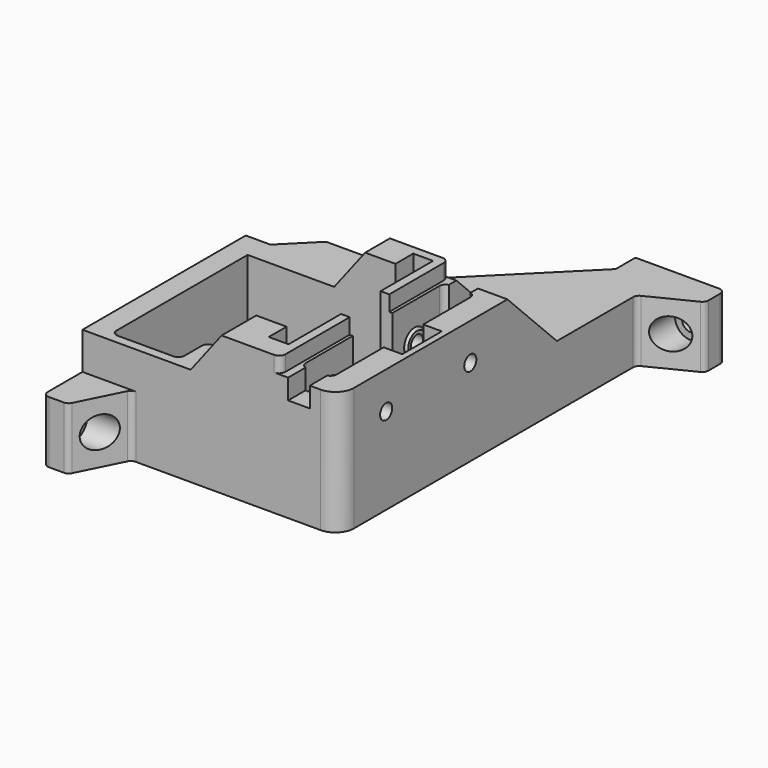
from build123d import *

# Parameters (mm, degrees)
PAD049_DEPTH           = 50
SKETCH170_R            = 2.75
POCKET_DEPTH           = 152.001
SKETCH171_R            = 2.75
SKETCH171_W            = 16
SKETCH171_H            = 12
POCKET131_DEPTH        = 99.001
POCKET132_DEPTH        = 5.001
POCKET133_DEPTH        = 0.001
POCKET133_DEPTH_BACK   = 45.001
SKETCH187_W            = 6.4
SKETCH187_H            = 58.4
POCKET134_DEPTH        = 20.001
SKETCH197_R            = 5
POCKET135_DEPTH        = 95.001
POCKET136_DEPTH        = 20
SKETCH198_R            = 5
POCKET137_DEPTH        = 148.001
SKETCH189_R            = 1.75
POCKET138_DEPTH        = 29.601
POCKET139_DEPTH        = 15.001
LINEARPATTERN_COUNT    = 2
LINEARPATTERN_PITCH    = 52
LINEARPATTERN001_COUNT = 2
LINEARPATTERN001_PITCH = 34
SKETCH185_R            = 2.45
POCKET140_DEPTH        = 37.001
PAD_START              = 70
PAD_DEPTH              = 66
PAD053_START           = 70
PAD053_DEPTH           = 13
POCKET141_DEPTH        = 2.001
POCKET141_DEPTH_BACK   = 99.001
SKETCH173_W            = 11
SKETCH173_H            = 11.5
POCKET142_DEPTH        = 3.5


with BuildPart() as part:
    # Sketch169 → Pad049 (new body)
    with BuildSketch(Plane.XY):
        with BuildLine():
            Line((97.894427, -8.552786), (84.105573, -15.447214))
            ThreePointArc((84.105573, -15.447214), (83.298698, -16.184606), (83, -17.236068))
            Line((83, -17.236068), (83, -130))
            ThreePointArc((77, -136), (81.242641, -134.242641), (83, -130))
            Line((77, -136), (17.236068, -136))
            ThreePointArc((17.236068, -136), (16.184606, -136.298698), (15.447214, -137.105573))
            Line((15.447214, -137.105573), (8.552786, -150.894427))
            ThreePointArc((6.763932, -152), (7.815394, -151.701302), (8.552786, -150.894427))
            Line((6.763932, -152), (2, -152))
            ThreePointArc((0, -150), (0.585786, -151.414214), (2, -152))
            Line((0, -150), (0, -70))
            Line((0, -70), (8, -70))
            Line((8, -70), (70, -8))
            Line((70, -8), (70, 0))
            Line((70, 0), (97, 0))
            ThreePointArc((99, -2), (98.414214, -0.585786), (97, 0))
            Line((99, -2), (99, -6.763932))
            ThreePointArc((97.894427, -8.552786), (98.701302, -7.815394), (99, -6.763932))
        make_face()
        with BuildLine():
            Line((65, -73), (65, -127))
            ThreePointArc((65, -127), (65.585786, -128.414214), (67, -129))
            Line((67, -129), (73, -129))
            ThreePointArc((73, -129), (74.414214, -128.414214), (75, -127))
            Line((75, -127), (75, -73))
            ThreePointArc((75, -73), (74.414214, -71.585786), (73, -71))
            Line((73, -71), (67, -71))
            ThreePointArc((67, -71), (65.585786, -71.585786), (65, -73))
        make_face(mode=Mode.SUBTRACT)
    extrude(amount=PAD049_DEPTH)

    # Sketch170 → Pocket (cut, through all)
    with BuildSketch(Plane.XZ):
        with Locations((91, 10)):
            Circle(SKETCH170_R)
        Polygon((0, 32), (35, 32), (45, 45), (83, 45), (83, 20), (99, 20), (99, 50), (0, 50), align=None)
    extrude(amount=POCKET_DEPTH, mode=Mode.SUBTRACT)

    # Sketch171 → Pocket131 (cut, through all)
    with BuildSketch(Plane.YZ):
        with Locations((-144, 10)):
            Circle(SKETCH171_R)
        with Locations((-144, 26)):
            Rectangle(SKETCH171_W, SKETCH171_H)
    extrude(amount=POCKET131_DEPTH, mode=Mode.SUBTRACT)

    # Sketch175 → Pocket132 (cut, through all)
    with BuildSketch(Plane.XY.offset(40)):
        with BuildLine():
            Line((83, 0), (83, -136))
            Line((61.999985, -136), (83, -136))
            ThreePointArc((61.999985, -136), (63.414208, -135.414219), (64, -134))
            Line((64, -134), (64, -70))
            ThreePointArc((64, -70), (63.414214, -68.585786), (62, -68))
            Line((62, -68), (20, -68))
            Line((20, 0), (20, -68))
            Line((83, 0), (20, 0))
        make_face()
    extrude(amount=POCKET132_DEPTH, mode=Mode.SUBTRACT)

    # Sketch186 → Pocket133 (cut, two sides)
    with BuildSketch(Plane.XY) as pocket133_sk:
        with BuildLine():
            Line((7, -78), (55.2, -78))
            Line((55.2, -78), (55.2, -81.8))
            Line((55.2, -81.8), (57.8, -81.8))
            Line((57.8, -81.8), (57.8, -78.8))
            Line((57.8, -78.8), (61.2, -78.8))
            Line((61.2, -78.8), (61.2, -121.2))
            Line((61.2, -121.2), (57.8, -121.2))
            Line((57.8, -121.2), (57.8, -118.2))
            Line((57.8, -118.2), (55.2, -118.2))
            Line((55.2, -118.2), (55.2, -122))
            Line((55.2, -122), (31, -122))
            ThreePointArc((31, -122), (29.585786, -122.585786), (29, -124))
            Line((29, -124), (29, -131))
            ThreePointArc((27, -133), (28.414214, -132.414214), (29, -131))
            Line((27, -133), (9, -133))
            ThreePointArc((7, -131), (7.585786, -132.414214), (9, -133))
            Line((7, -131), (7, -122))
            Line((7, -122), (7, -78))
        make_face()
    extrude(amount=-POCKET133_DEPTH, mode=Mode.SUBTRACT)
    extrude(pocket133_sk.sketch, amount=POCKET133_DEPTH_BACK, mode=Mode.SUBTRACT)

    # Sketch187 → Pocket134 (cut, through all)
    with BuildSketch(Plane.XY.offset(25)):
        with Locations((58, -100)):
            Rectangle(SKETCH187_W, SKETCH187_H)
    extrude(amount=POCKET134_DEPTH, mode=Mode.SUBTRACT)

    # Sketch197 → Pocket135 (cut, through all)
    with BuildSketch(Plane.YZ.offset(4)):
        with Locations((-144, 10)):
            Circle(SKETCH197_R)
    extrude(amount=POCKET135_DEPTH, mode=Mode.SUBTRACT)

    # Sketch191 → Pocket136 (cut)
    with BuildSketch(Plane.YZ.offset(61)):
        with BuildLine():
            ThreePointArc((-108, 21), (-100, 13), (-92, 21))
            Line((-92, 21), (-92, 45))
            Line((-108, 45), (-92, 45))
            Line((-108, 45), (-108, 21))
        make_face()
    extrude(amount=POCKET136_DEPTH, mode=Mode.SUBTRACT)

    # Sketch198 → Pocket137 (cut, through all)
    with BuildSketch(Plane.XZ.offset(4)):
        with Locations((91, 10)):
            Circle(SKETCH198_R)
    extrude(amount=POCKET137_DEPTH, mode=Mode.SUBTRACT)

    # Sketch189 → Pocket138 (cut, through all)
    with BuildSketch(Plane.XY.offset(15.4)):
        with Locations((58, -74)):
            Circle(SKETCH189_R)
        with Locations((58, -126)):
            Circle(SKETCH189_R)
    extrude(amount=POCKET138_DEPTH, mode=Mode.SUBTRACT)

    # Sketch190 → Pocket139 (cut, through all)
    with BuildSketch(Plane.XY.offset(15)):
        with BuildLine():
            ThreePointArc((57.047372, -71.35), (56.364359, -71.166987), (56.181347, -71.85))
            Line((55.228719, -73.5), (56.181347, -71.85))
            ThreePointArc((55.228719, -73.5), (54.728719, -74), (55.228719, -74.5))
            Line((56.181347, -76.15), (55.228719, -74.5))
            ThreePointArc((56.181347, -76.15), (56.364359, -76.833013), (57.047372, -76.65))
            Line((58.952628, -76.65), (57.047372, -76.65))
            ThreePointArc((58.952628, -76.65), (59.635641, -76.833013), (59.818653, -76.15))
            Line((60.771281, -74.5), (59.818653, -76.15))
            ThreePointArc((60.771281, -74.5), (61.271281, -74), (60.771281, -73.5))
            Line((59.818653, -71.85), (60.771281, -73.5))
            ThreePointArc((59.818653, -71.85), (59.635641, -71.166987), (58.952628, -71.35))
            Line((57.047372, -71.35), (58.952628, -71.35))
        make_face()
    pocket139 = extrude(amount=-POCKET139_DEPTH, mode=Mode.SUBTRACT)

    # LinearPattern: Pocket139 ×2
    with Locations(*[(0, -i * LINEARPATTERN_PITCH, 0) for i in range(1, LINEARPATTERN_COUNT)]):
        add(pocket139, mode=Mode.SUBTRACT)

    # Sketch364 → Revolution (revolve)
    with BuildSketch(Plane.XY.offset(28)):
        Polygon((75, -78.75), (74.25, -79.5), (74.25, -83), (75, -83), align=None)
        Polygon((65, -78.75), (65.75, -79.5), (65.75, -83), (65, -83), align=None)
    revolution = revolve(axis=Axis((74.25, -83, 28), (1, 0, 0)))

    # LinearPattern001: Revolution ×2
    with Locations(*[(0, -i * LINEARPATTERN001_PITCH, 0) for i in range(1, LINEARPATTERN001_COUNT)]):
        add(revolution)

    # Sketch185 → Pocket140 (cut, through all)
    with BuildSketch(Plane.YZ.offset(62)):
        with Locations((-83, 28)):
            Circle(SKETCH185_R)
        with Locations((-117, 28)):
            Circle(SKETCH185_R)
    extrude(amount=POCKET140_DEPTH, mode=Mode.SUBTRACT)

    # Sketch367 → Pad (join)
    with BuildSketch(Plane.XZ.offset(PAD_START)):
        Polygon((0, 14.275736), (0, 5.724264), (-2, 7.724264), (-2, 12.275736), align=None)
    extrude(amount=PAD_DEPTH)

    # Sketch368 → Pad053 (join)
    with BuildSketch(Plane.YZ.offset(PAD053_START)):
        Polygon((0, 14.275736), (2, 12.275736), (2, 7.724264), (0, 5.724264), align=None)
    extrude(amount=PAD053_DEPTH)

    # Sketch → Pocket141 (cut, two sides)
    with BuildSketch(Plane.YZ) as pocket141_sk:
        Polygon((-68, 40), (-48, 20), (0, 20), (0, 40), align=None)
    extrude(amount=-POCKET141_DEPTH, mode=Mode.SUBTRACT)
    extrude(pocket141_sk.sketch, amount=POCKET141_DEPTH_BACK, mode=Mode.SUBTRACT)

    # Sketch173 → Pocket142 (cut, symmetric)
    with BuildSketch(Plane.YZ.offset(70)):
        with Locations((-130.5, 39.25)):
            Rectangle(SKETCH173_W, SKETCH173_H)
        Polygon((0, 24), (0, 45), (-75, 45), (-75, 33), align=None)
    extrude(amount=POCKET142_DEPTH, both=True, mode=Mode.SUBTRACT)


solid = part.part
